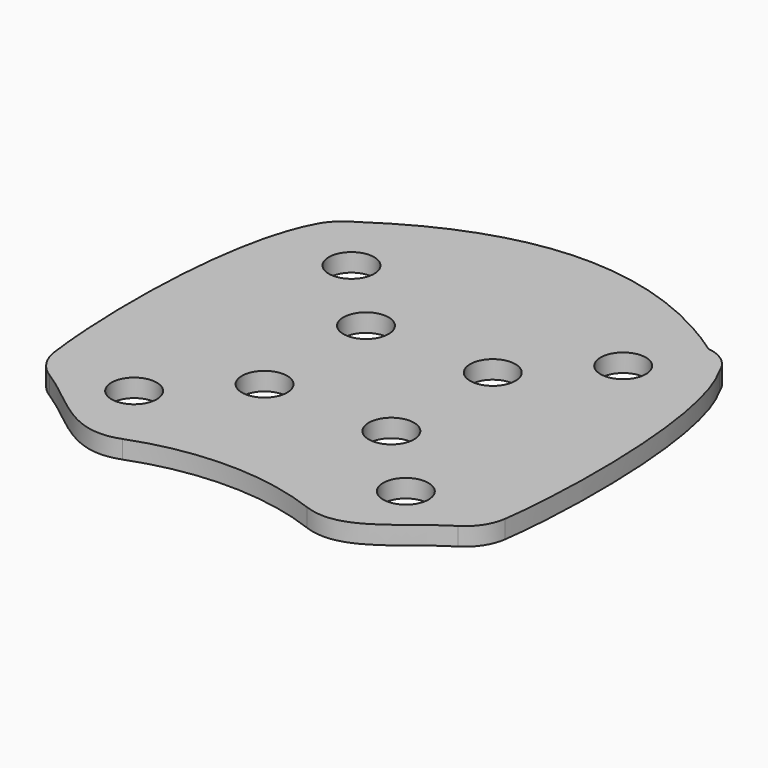
from build123d import *

# Parameters (mm, degrees)
F0_R     = 2.5
F1_DEPTH = 2


with BuildPart() as f1:
    # F0 (on Top) → F1 (new body)
    with BuildSketch(Plane.XY):
        with BuildLine():
            add(Edge.make_bspline(
                [(-19.704321, 21.398848), (-6.516069, 30.382996), (6.516069, 30.382996), (18.773205, 21.827396)],
                knots=[0, 0, 0, 0, 38.479913, 38.479913, 38.479913, 38.479913], degree=3))
            ThreePointArc((-19.704321, 21.398848), (-21.024547, 20.4837), (-22.054647, 19.251066))
            add(Edge.make_bspline(
                [(-22.054647, 19.251066), (-26.418865, 11.664507), (-25.900009, -6.933015), (-24.88908, -13.926778)],
                knots=[0, 0, 0, 0, 29.282142, 29.282142, 29.282142, 29.282142], degree=3))
            ThreePointArc((-24.88908, -13.926778), (-24.117585, -15.959575), (-22.556211, -17.472709))
            add(Edge.make_bspline(
                [(-10.180056, -22.870327), (-15.022858, -24.695323), (-18.484277, -19.972211), (-22.556211, -17.472709)],
                knots=[0, 0, 0, 0, 13.563984, 13.563984, 13.563984, 13.563984], degree=3))
            ThreePointArc((-10.180056, -22.870327), (0, -21.013477), (10.180056, -22.870327))
            add(Edge.make_bspline(
                [(10.180056, -22.870327), (15.022858, -24.695323), (18.484277, -19.972211), (22.556211, -17.472709)],
                knots=[0, 0, 0, 0, 13.563984, 13.563984, 13.563984, 13.563984], degree=3))
            ThreePointArc((22.556211, -17.472709), (24.117585, -15.959575), (24.88908, -13.926778))
            add(Edge.make_bspline(
                [(22.054647, 19.251066), (26.418865, 11.664507), (25.900009, -6.933015), (24.88908, -13.926778)],
                knots=[0, 0, 0, 0, 29.282142, 29.282142, 29.282142, 29.282142], degree=3))
            ThreePointArc((22.054647, 19.251066), (20.7792, 21.004476), (18.773205, 21.827396))
        make_face()
        with Locations((-15, -15.236906)):
            Circle(F0_R, mode=Mode.SUBTRACT)
        with Locations((-7, -7.236906)):
            Circle(F0_R, mode=Mode.SUBTRACT)
        with Locations((15, -15.236906)):
            Circle(F0_R, mode=Mode.SUBTRACT)
        with Locations((7, -7.236906)):
            Circle(F0_R, mode=Mode.SUBTRACT)
        with Locations((-15, 14.763094)):
            Circle(F0_R, mode=Mode.SUBTRACT)
        with Locations((-7, 6.763094)):
            Circle(F0_R, mode=Mode.SUBTRACT)
        with Locations((7, 6.763094)):
            Circle(F0_R, mode=Mode.SUBTRACT)
        with Locations((15, 14.763094)):
            Circle(F0_R, mode=Mode.SUBTRACT)
    extrude(amount=F1_DEPTH)


solid = f1.part
